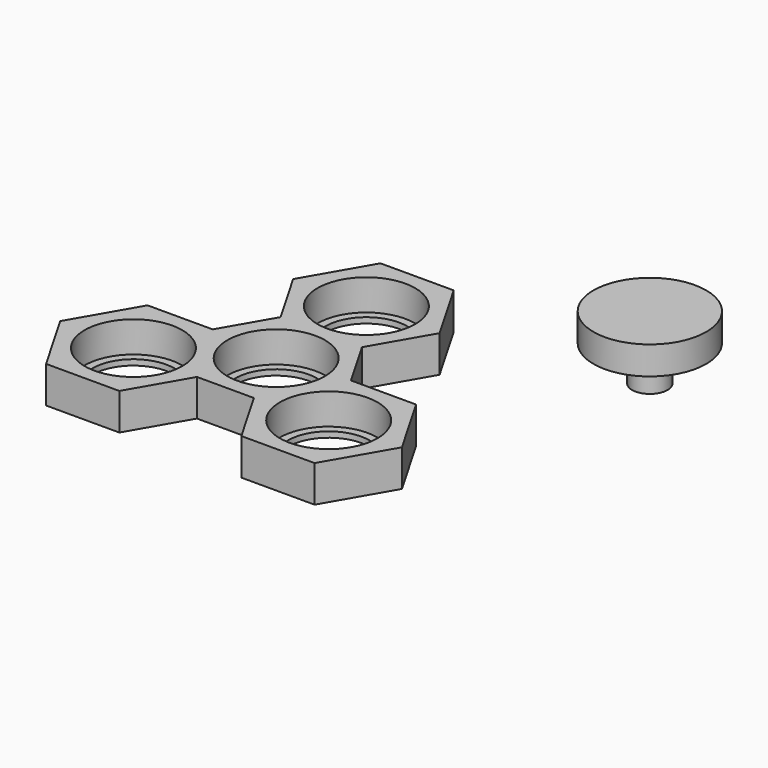
from build123d import *

# Parameters (mm, degrees)
F0_R     = 11
F1_DEPTH = 8.255
F2_R     = 4
F3_DEPTH = 8
F4_R     = 12.7
F5_DEPTH = 6.35
F6_R     = 11
F6_R_2   = 9.2075
F7_DEPTH = 1.27


with BuildPart() as f1:
    # F0 (on Top) → F1 (new body)
    with BuildSketch(Plane.XY):
        Polygon((8.248892, 39.6875), (-8.248892, 39.6875), (-16.497784, 25.4), (-9.165436, 12.7), (-15.58124, 1.5875), (-30.245937, 1.5875), (-38.494829, -12.7), (-30.245937, -26.9875), (-13.748153, -26.9875), (-6.415805, -14.2875), (6.415805, -14.2875), (13.748153, -26.9875), (30.245937, -26.9875), (38.494829, -12.7), (30.245937, 1.5875), (15.58124, 1.5875), (9.165436, 12.7), (16.497784, 25.4), align=None)
        with Locations((-21.997045, -12.7)):
            Circle(F0_R, mode=Mode.SUBTRACT)
        Circle(F0_R, mode=Mode.SUBTRACT)
        with Locations((21.997045, -12.7)):
            Circle(F0_R, mode=Mode.SUBTRACT)
        with Locations((0, 25.4)):
            Circle(F0_R, mode=Mode.SUBTRACT)
    extrude(amount=F1_DEPTH)

    # F6 (on face) → F7 (join)
    with BuildSketch(Plane(origin=(0, 0, 0), x_dir=(1, 0, 0), z_dir=(0, 0, -1))):
        with Locations((-21.997045, 12.7)):
            Circle(F6_R)
        with Locations((-21.997045, 12.7)):
            Circle(F6_R_2, mode=Mode.SUBTRACT)
        with Locations((21.997045, 12.7)):
            Circle(F6_R)
        with Locations((21.997045, 12.7)):
            Circle(F6_R_2, mode=Mode.SUBTRACT)
        Circle(F6_R)
        Circle(F6_R_2, mode=Mode.SUBTRACT)
        with Locations((0, -25.4)):
            Circle(F6_R)
        with Locations((0, -25.4)):
            Circle(F6_R_2, mode=Mode.SUBTRACT)
    extrude(amount=-F7_DEPTH)


with BuildPart() as f3:
    # F2 (on Top) → F3 (new body)
    with BuildSketch(Plane.XY):
        with Locations((47.45223, 45.924596)):
            Circle(F2_R)
    extrude(amount=F3_DEPTH)

    # F4 (on face) → F5 (join)
    with BuildSketch(Plane.XY.offset(8)):
        with Locations((47.45223, 45.924596)):
            Circle(F4_R)
    extrude(amount=F5_DEPTH)


solid = Compound([f1.part, f3.part])
